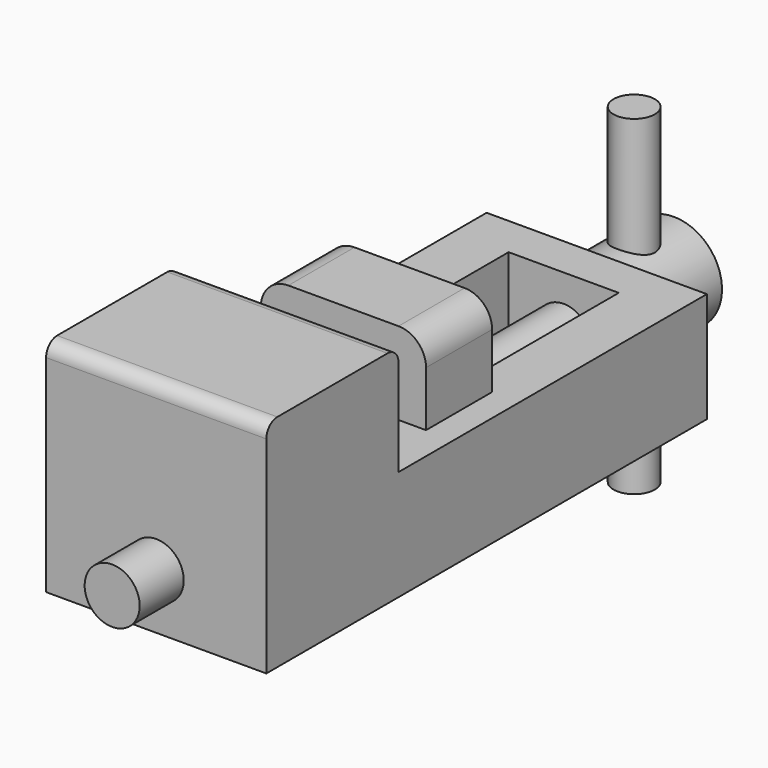
from build123d import *

# Parameters (mm, degrees)
F1_DEPTH       = 40
F2_W           = 40
F2_H           = 115
F3_DEPTH       = 40
F4_R           = 10
F5_DEPTH       = 200.001
F6_R           = 10
F7_DEPTH       = 15
F8_R           = 17.5
F8_R_2         = 10
F9_DEPTH       = 35
F10_DEPTH      = 220
F11_R          = 7.5
F12_DEPTH      = 40.001
F13_R          = 7.5
F14_DEPTH      = 40
F14_DEPTH_BACK = 80


with BuildPart() as f1:
    # F0 (on Right) → F1 (new body, symmetric)
    with BuildSketch(Plane.YZ):
        with BuildLine():
            ThreePointArc((-95, 80), (-98.5355339059, 78.5355339059), (-100, 75))
            Line((-100, 75), (-100, 0))
            Line((-100, 0), (100, 0))
            Line((100, 0), (100, 40))
            Line((100, 40), (-40, 40))
            Line((-40, 40), (-40, 75))
            ThreePointArc((-40, 75), (-41.4644660941, 78.5355339059), (-45, 80))
            Line((-45, 80), (-95, 80))
        make_face()
    extrude(amount=F1_DEPTH, both=True)

    # F2 (on face) → F3 (cut, through all)
    with BuildSketch(Plane.XY.offset(40)):
        with Locations((0, 27.5)):
            Rectangle(F2_W, F2_H)
    extrude(amount=-F3_DEPTH, mode=Mode.SUBTRACT)

    # F4 (on face) → F5 (cut, through all)
    with BuildSketch(Plane(origin=(0, 100, 0), x_dir=(-1, 0, 0), z_dir=(0, 1, 0))):
        with Locations((0, 20)):
            Circle(F4_R)
    extrude(amount=-F5_DEPTH, mode=Mode.SUBTRACT)


with BuildPart() as f7:
    # F6 (on Front) → F7 (new body, symmetric)
    with BuildSketch(Plane.XZ):
        with BuildLine():
            Line((-20, 0), (20, 0))
            Line((20, 0), (20, 40))
            Line((20, 40), (30, 40))
            Line((30, 40), (30, 60))
            ThreePointArc((30, 60), (27.0710678119, 67.0710678119), (20, 70))
            Line((20, 70), (-20, 70))
            ThreePointArc((-20, 70), (-27.0710678119, 67.0710678119), (-30, 60))
            Line((-30, 60), (-30, 40))
            Line((-30, 40), (-20, 40))
            Line((-20, 40), (-20, 0))
        make_face()
        with Locations((0, 20)):
            Circle(F6_R, mode=Mode.SUBTRACT)
    extrude(amount=F7_DEPTH, both=True)


with BuildPart() as f9:
    # F8 (on face) → F9 (new body)
    with BuildSketch(Plane(origin=(0, 100, 0), x_dir=(-1, 0, 0), z_dir=(0, 1, 0))):
        with Locations((0, 20)):
            Circle(F8_R)
        with Locations((0, 20)):
            Circle(F8_R_2, mode=Mode.SUBTRACT)
        with Locations((0, 20)):
            Circle(F8_R_2)
    extrude(amount=F9_DEPTH)

    # F8 (on face) → F10 (join)
    with BuildSketch(Plane(origin=(0, 100, 0), x_dir=(-1, 0, 0), z_dir=(0, 1, 0))):
        with Locations((0, 20)):
            Circle(F8_R_2)
    extrude(amount=-F10_DEPTH)

    # F11 (on face) → F12 (cut, through all)
    with BuildSketch(Plane.XY.offset(40)):
        with Locations((0, 117)):
            Circle(F11_R)
    extrude(amount=-F12_DEPTH, mode=Mode.SUBTRACT)


with BuildPart() as f14:
    # F13 (on face) → F14 (new body, two sides)
    with BuildSketch(Plane.XY.offset(40)) as f14_sk:
        with Locations((0, 117)):
            Circle(F13_R)
    extrude(amount=F14_DEPTH)
    extrude(f14_sk.sketch, amount=-F14_DEPTH_BACK)


solid = Compound([f1.part, f7.part, f9.part, f14.part])
